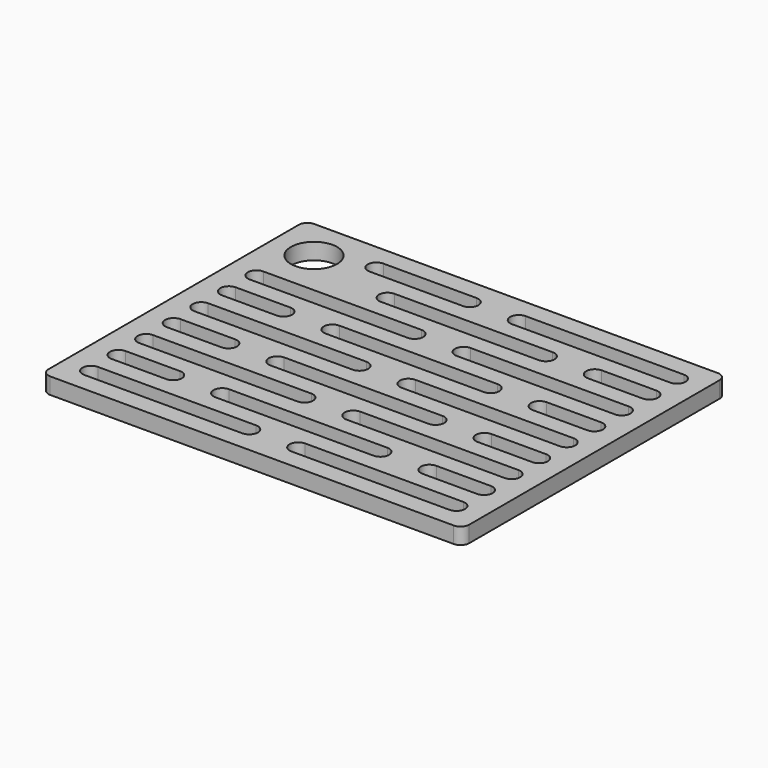
from build123d import *

# Parameters (mm, degrees)
SKETCH_R  = 25.5
PAD_DEPTH = 18


with BuildPart() as part:
    # Sketch → Pad (new body)
    with BuildSketch(Plane.XY):
        with BuildLine():
            ThreePointArc((-9.5, 0), (-2.782486, 2.782486), (0, 9.5))
            Line((0, 9.5), (0, 354.5))
            ThreePointArc((0, 354.5), (-2.782486, 361.217515), (-9.500001, 364))
            Line((-9.500001, 364), (-454.5, 364))
            ThreePointArc((-454.5, 364), (-461.217514, 361.217514), (-464, 354.5))
            Line((-464, 354.5), (-464, 9.5))
            ThreePointArc((-464, 9.5), (-461.217514, 2.782485), (-454.5, 0))
            Line((-454.5, 0), (-9.5, 0))
        make_face()
        with Locations((-418, 318)):
            Circle(SKETCH_R, mode=Mode.SUBTRACT)
        with BuildLine():
            ThreePointArc((-205, 39.5), (-214.5, 30), (-205, 20.5))
            Line((-205, 20.5), (-30.5, 20.5))
            ThreePointArc((-30.5, 20.5), (-21, 30), (-30.5, 39.5))
            Line((-205, 39.5), (-30.5, 39.5))
        make_face(mode=Mode.SUBTRACT)
        with BuildLine():
            ThreePointArc((-90.75, 77.5), (-100.25, 68), (-90.75, 58.5))
            Line((-90.75, 58.5), (-30.5, 58.5))
            ThreePointArc((-30.5, 58.5), (-21, 68), (-30.5, 77.5))
            Line((-90.75, 77.5), (-30.5, 77.5))
        make_face(mode=Mode.SUBTRACT)
        with BuildLine():
            ThreePointArc((-205, 115.5), (-214.5, 106), (-205, 96.5))
            Line((-205, 96.5), (-30.5, 96.5))
            ThreePointArc((-30.5, 96.5), (-21, 106), (-30.5, 115.5))
            Line((-205, 115.5), (-30.5, 115.5))
        make_face(mode=Mode.SUBTRACT)
        with BuildLine():
            ThreePointArc((-90.75, 153.5), (-100.25, 144), (-90.75, 134.5))
            Line((-90.75, 134.5), (-30.5, 134.5))
            ThreePointArc((-30.5, 134.5), (-21, 144), (-30.5, 153.5))
            Line((-90.75, 153.5), (-30.5, 153.5))
        make_face(mode=Mode.SUBTRACT)
        with BuildLine():
            ThreePointArc((-205, 191.5), (-214.5, 182), (-205, 172.5))
            Line((-205, 172.5), (-30.5, 172.5))
            ThreePointArc((-30.5, 172.5), (-21, 182), (-30.5, 191.5))
            Line((-205, 191.5), (-30.5, 191.5))
        make_face(mode=Mode.SUBTRACT)
        with BuildLine():
            ThreePointArc((-90.75, 229.5), (-100.25, 220), (-90.75, 210.5))
            Line((-90.75, 210.5), (-30.5, 210.5))
            ThreePointArc((-30.5, 210.5), (-21, 220), (-30.5, 229.5))
            Line((-90.75, 229.5), (-30.5, 229.5))
        make_face(mode=Mode.SUBTRACT)
        with BuildLine():
            ThreePointArc((-205, 267.5), (-214.5, 258), (-205, 248.5))
            Line((-205, 248.5), (-30.5, 248.5))
            ThreePointArc((-30.5, 248.5), (-21, 258), (-30.5, 267.5))
            Line((-205, 267.5), (-30.5, 267.5))
        make_face(mode=Mode.SUBTRACT)
        with BuildLine():
            ThreePointArc((-90.75, 305.5), (-100.25, 296), (-90.75, 286.5))
            Line((-90.75, 286.5), (-30.5, 286.5))
            ThreePointArc((-30.5, 286.5), (-21, 296), (-30.5, 305.5))
            Line((-90.75, 305.5), (-30.5, 305.5))
        make_face(mode=Mode.SUBTRACT)
        with BuildLine():
            ThreePointArc((-259, 20.5), (-249.5, 30), (-259, 39.5))
            Line((-259, 39.5), (-433.5, 39.5))
            ThreePointArc((-433.5, 39.5), (-443, 30), (-433.5, 20.5))
            Line((-259, 20.5), (-433.5, 20.5))
        make_face(mode=Mode.SUBTRACT)
        with BuildLine():
            ThreePointArc((-433.5, 77.5), (-443, 68), (-433.5, 58.5))
            Line((-433.5, 58.5), (-373.25, 58.5))
            ThreePointArc((-373.25, 58.5), (-363.75, 68), (-373.25, 77.5))
            Line((-433.5, 77.5), (-373.25, 77.5))
        make_face(mode=Mode.SUBTRACT)
        with BuildLine():
            ThreePointArc((-319.25, 77.5), (-328.75, 68), (-319.25, 58.5))
            Line((-319.25, 58.5), (-144.75, 58.5))
            ThreePointArc((-144.75, 58.5), (-135.25, 68), (-144.75, 77.5))
            Line((-319.25, 77.5), (-144.75, 77.5))
        make_face(mode=Mode.SUBTRACT)
        with BuildLine():
            ThreePointArc((-433.5, 115.5), (-443, 106), (-433.5, 96.5))
            Line((-433.5, 96.5), (-259, 96.5))
            ThreePointArc((-259, 96.5), (-249.5, 106), (-259, 115.5))
            Line((-433.5, 115.5), (-259, 115.5))
        make_face(mode=Mode.SUBTRACT)
        with BuildLine():
            ThreePointArc((-319.25, 153.5), (-328.75, 144), (-319.25, 134.5))
            Line((-319.25, 134.5), (-144.75, 134.5))
            ThreePointArc((-144.75, 134.5), (-135.25, 144), (-144.75, 153.5))
            Line((-319.25, 153.5), (-144.75, 153.5))
        make_face(mode=Mode.SUBTRACT)
        with BuildLine():
            ThreePointArc((-373.25, 134.5), (-363.75, 144), (-373.25, 153.5))
            Line((-373.25, 153.5), (-433.5, 153.5))
            ThreePointArc((-433.5, 153.5), (-443, 144), (-433.5, 134.5))
            Line((-373.25, 134.5), (-433.5, 134.5))
        make_face(mode=Mode.SUBTRACT)
        with BuildLine():
            ThreePointArc((-259, 172.5), (-249.5, 182), (-259, 191.5))
            Line((-259, 191.5), (-433.5, 191.5))
            ThreePointArc((-433.5, 191.5), (-443, 182), (-433.5, 172.5))
            Line((-259, 172.5), (-433.5, 172.5))
        make_face(mode=Mode.SUBTRACT)
        with BuildLine():
            ThreePointArc((-144.75, 210.5), (-135.25, 220), (-144.75, 229.5))
            Line((-144.75, 229.5), (-319.25, 229.5))
            ThreePointArc((-319.25, 229.5), (-328.75, 220), (-319.25, 210.5))
            Line((-144.75, 210.5), (-319.25, 210.5))
        make_face(mode=Mode.SUBTRACT)
        with BuildLine():
            ThreePointArc((-373.25, 210.5), (-363.75, 220), (-373.25, 229.5))
            Line((-373.25, 229.5), (-433.5, 229.5))
            ThreePointArc((-433.5, 229.5), (-443, 220), (-433.5, 210.5))
            Line((-373.25, 210.5), (-433.5, 210.5))
        make_face(mode=Mode.SUBTRACT)
        with BuildLine():
            ThreePointArc((-259, 248.5), (-249.5, 258), (-259, 267.5))
            Line((-259, 267.5), (-433.5, 267.5))
            ThreePointArc((-433.5, 267.5), (-443, 258), (-433.5, 248.5))
            Line((-259, 248.5), (-433.5, 248.5))
        make_face(mode=Mode.SUBTRACT)
        with BuildLine():
            ThreePointArc((-319.25, 305.5), (-328.75, 296), (-319.25, 286.5))
            Line((-319.25, 286.5), (-144.75, 286.5))
            ThreePointArc((-144.75, 286.5), (-135.25, 296), (-144.75, 305.5))
            Line((-319.25, 305.5), (-144.75, 305.5))
        make_face(mode=Mode.SUBTRACT)
        with BuildLine():
            ThreePointArc((-30.5, 324.5), (-21, 334), (-30.5, 343.5))
            Line((-30.5, 343.5), (-205, 343.5))
            ThreePointArc((-205, 343.5), (-214.5, 334), (-205, 324.5))
            Line((-30.5, 324.5), (-205, 324.5))
        make_face(mode=Mode.SUBTRACT)
        with BuildLine():
            ThreePointArc((-259, 324.5), (-249.5, 334), (-259, 343.5))
            Line((-259, 343.5), (-362, 343.5))
            ThreePointArc((-362, 343.5), (-371.5, 334), (-362, 324.5))
            Line((-259, 324.5), (-362, 324.5))
        make_face(mode=Mode.SUBTRACT)
    extrude(amount=PAD_DEPTH)


solid = part.part
